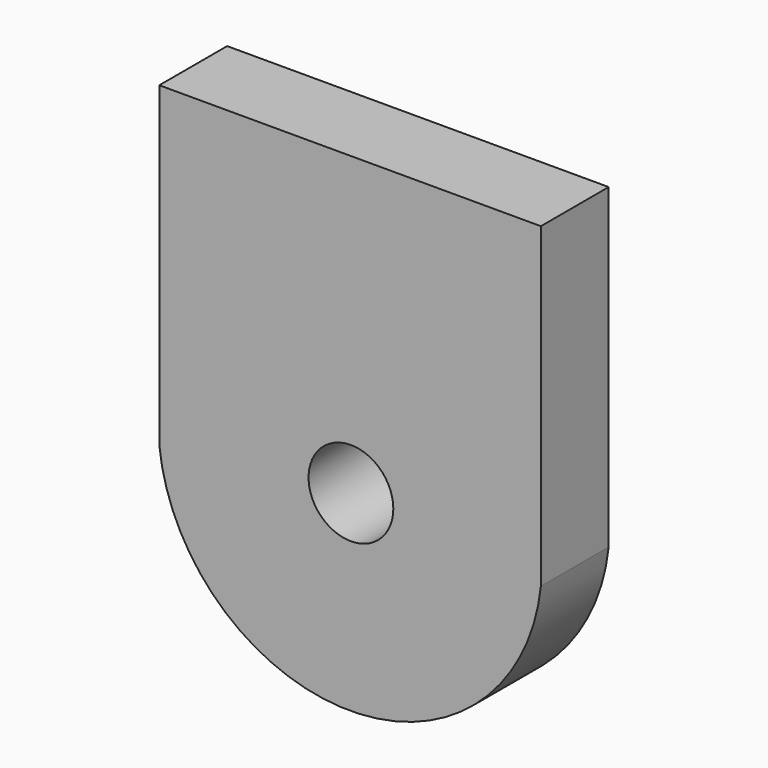
from build123d import *

# Parameters (mm, degrees)
SKETCH330_AS_DRAWN_R                 = 1
EXTRUDE199_DEPTH                     = 5
EXTRUDE199_ONTO_SKETCH330_ROLL_ANGLE = 90
EXTRUDE198_DEPTH                     = 2
EXTRUDE198_ONTO_SKETCH329_ROLL_ANGLE = 90


with BuildPart() as extrude199:
    # Sketch330 as drawn → Extrude199 (new)
    with BuildSketch(Plane.XY):
        with Locations((-45, 11)):
            Circle(SKETCH330_AS_DRAWN_R)
    extrude(amount=-EXTRUDE199_DEPTH)


with BuildPart() as extrude199_1:
    # Extrude199 onto Sketch330 roll: moved
    add(extrude199.part.rotate(Axis((0, 0, 0), (1, 0, 0)), EXTRUDE199_ONTO_SKETCH330_ROLL_ANGLE))


with BuildPart() as extrude199_2:
    # Extrude199 onto Sketch330 placement: moved
    add(extrude199_1.part.moved(Location((0.25, 0, 0))))


with BuildPart() as extrude199_3:
    # Extrude199 placement: moved
    add(extrude199_2.part.moved(Location((0, 8, 0))))


with BuildPart() as obj1:
    # Sketch329 as drawn → Extrude198 (new)
    with BuildSketch(Plane.XY):
        with BuildLine():
            ThreePointArc((-49, 10.52425), (-44.500001, 6.474921), (-40, 10.524249))
            Line((-40, 10.524249), (-40, 18))
            Line((-49, 18), (-40, 18))
            Line((-49, 18), (-49, 10.52425))
        make_face()
    extrude(amount=-EXTRUDE198_DEPTH)


with BuildPart() as obj1_1:
    # Extrude198 onto Sketch329 roll: moved
    add(obj1.part.rotate(Axis((0, 0, 0), (1, 0, 0)), EXTRUDE198_ONTO_SKETCH329_ROLL_ANGLE))


with BuildPart() as obj1_2:
    # Extrude198 onto Sketch329 placement: moved
    add(obj1_1.part)


with BuildPart() as obj1_3:
    # Extrude198 placement: moved
    add(obj1_2.part.moved(Location((-0.27, 10, 0))))

    # Cut106: cut Extrude199
    add(extrude199_3.part, mode=Mode.SUBTRACT)


solid = obj1_3.part
